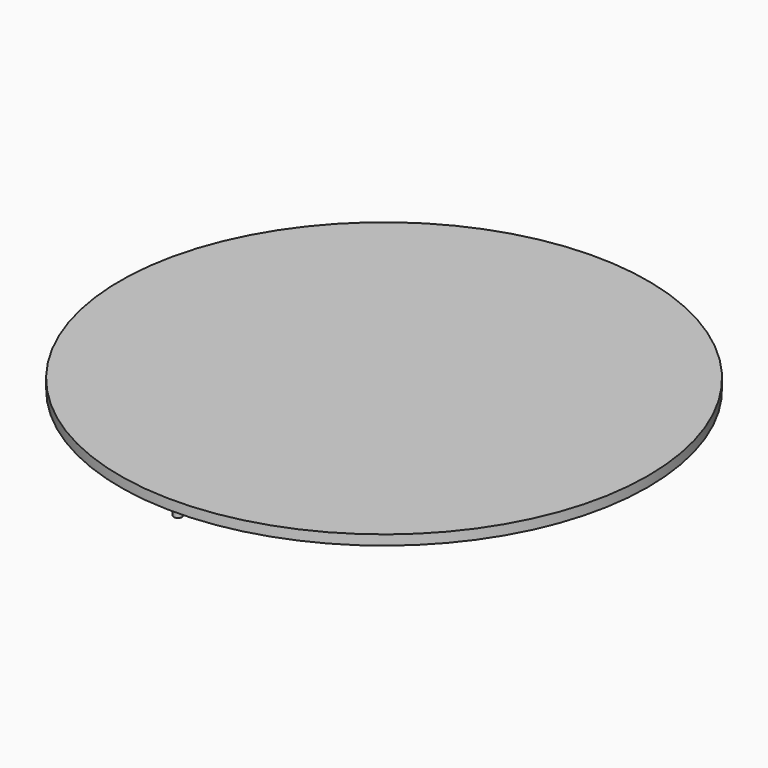
from build123d import *

# Parameters (mm, degrees)
F0_R     = 212.5
F1_DEPTH = 8
F2_R     = 3.25
F3_DEPTH = 5


with BuildPart() as f1:
    # F0 (on Top) → F1 (new body)
    with BuildSketch(Plane.XY):
        Circle(F0_R)
    extrude(amount=F1_DEPTH)

    # F2 (on face) → F3 (join)
    with BuildSketch(Plane(origin=(0, 0, 0), x_dir=(1, 0, 0), z_dir=(0, 0, -1))):
        with Locations((0, 207.5)):
            Circle(F2_R)
        with Locations((-179.700271, -103.75)):
            Circle(F2_R)
        with Locations((179.700271, -103.75)):
            Circle(F2_R)
    extrude(amount=F3_DEPTH)


solid = f1.part
